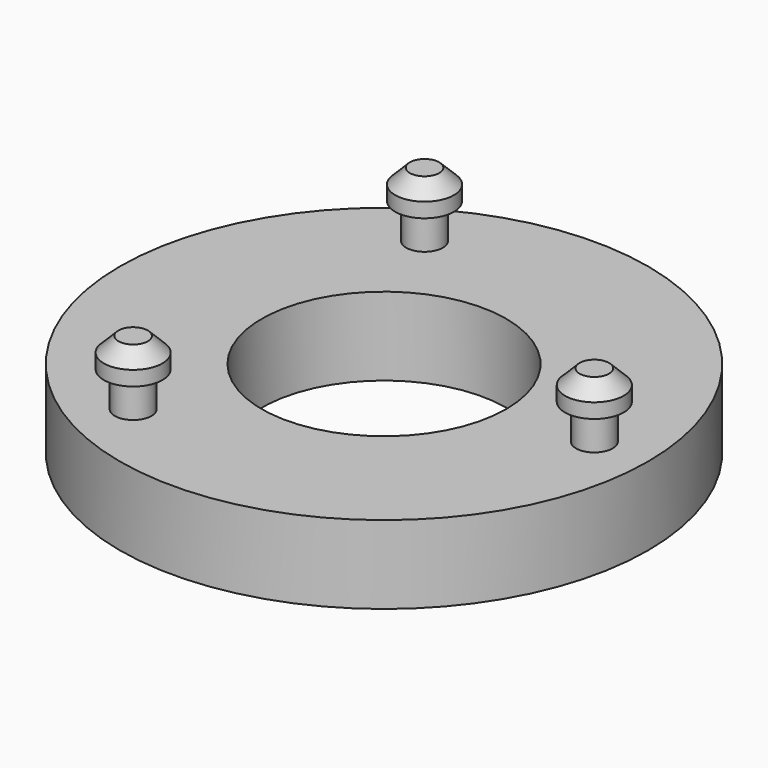
from build123d import *

# Parameters (mm, degrees)
SKETCH012_R     = 27
SKETCH012_R_2   = 12.5
PAD003_DEPTH    = 8
SKETCH013_R     = 1.875
PAD004_DEPTH    = 3.6
SKETCH014_R     = 3
PAD005_DEPTH    = 3
CHAMFER004_SIZE = 1.5


with BuildPart() as part:
    # Sketch012 → Pad003 (new body)
    with BuildSketch(Plane.XY):
        Circle(SKETCH012_R)
        Circle(SKETCH012_R_2, mode=Mode.SUBTRACT)
    extrude(amount=-PAD003_DEPTH)

    # Sketch013 → Pad004 (join)
    with BuildSketch(Plane.XY):
        with Locations((-10.75, 18.619546)):
            Circle(SKETCH013_R)
        with Locations((-10.75, -18.619546)):
            Circle(SKETCH013_R)
        with Locations((21.5, 0)):
            Circle(SKETCH013_R)
    extrude(amount=PAD004_DEPTH)

    # Sketch014 (on DatumPlane) → Pad005 (join)
    with BuildSketch(Plane.XY.offset(3.6)):
        with Locations((-10.75, 18.619546)):
            Circle(SKETCH014_R)
        with Locations((21.5, 0)):
            Circle(SKETCH014_R)
        with Locations((-10.75, -18.619546)):
            Circle(SKETCH014_R)
    extrude(amount=PAD005_DEPTH)

    # Chamfer004
    chamfer004_edges = [part.edges().sort_by_distance(p)[0] for p in [
        (18.5, 0, 6.6),
        (-13.75, 18.619546, 6.6),
        (-13.75, -18.619546, 6.6),
    ]]
    chamfer(chamfer004_edges, length=CHAMFER004_SIZE)


with BuildPart() as part_1:
    # Body001 placement: moved
    add(part.part.moved(Location((0, 11, -28))))


solid = part_1.part
